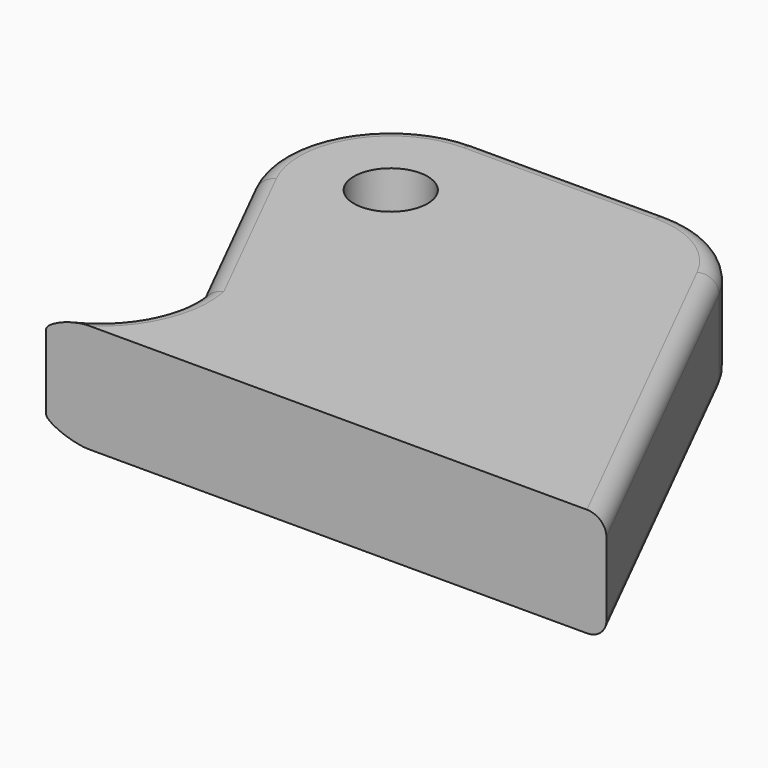
from build123d import *

# Parameters (mm, degrees)
F0_R     = 1.074573
F1_DEPTH = 3.175
F2_R     = 0.508


with BuildPart() as f1:
    # F0 (on Top) → F1 (new body)
    with BuildSketch(Plane.XY):
        with BuildLine():
            Line((-12.7, 0), (0, 0))
            Line((0, 0), (-5.472452, 10.944903))
            ThreePointArc((-5.472452, 10.944903), (-6.643062, 12.225816), (-8.312258, 12.7))
            Line((-8.312258, 12.7), (-13.912742, 12.7))
            ThreePointArc((-13.912742, 12.7), (-16.613558, 11.194196), (-16.752548, 8.105097))
            Line((-16.752548, 8.105097), (-14.236368, 3.072736))
            ThreePointArc((-14.236368, 3.072736), (-14.672147, 1.109722), (-16.349003, 0))
            Line((-16.349003, 0), (-12.7, 0))
        make_face()
        with Locations((-13.912742, 9.525)):
            Circle(F0_R, mode=Mode.SUBTRACT)
    extrude(amount=F1_DEPTH)

    # F2
    f2_edges = [f1.edges().sort_by_distance(p)[0] for p in [
        (-2.736226, 5.472452, 0),
        (-6.643062, 12.225816, 0),
        (-11.1125, 12.7, 0),
        (-16.613558, 11.194196, 0),
        (-15.494458, 5.588917, 0),
        (-14.672147, 1.109722, 0),
        (-2.736226, 5.472452, 3.175),
        (-6.643062, 12.225816, 3.175),
        (-11.1125, 12.7, 3.175),
        (-16.613558, 11.194196, 3.175),
        (-15.494458, 5.588917, 3.175),
        (-14.672147, 1.109722, 3.175),
    ]]
    fillet(f2_edges, radius=F2_R)


solid = f1.part
